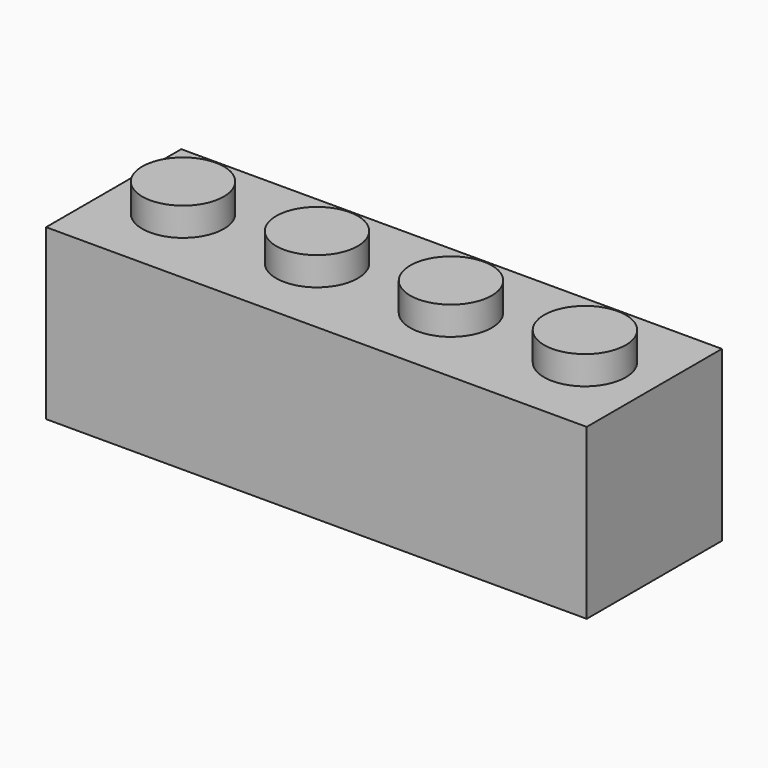
from build123d import *

# Parameters (mm, degrees)
F0_W     = 31.8
F0_H     = 9.94
F0_R     = 2.4
F1_DEPTH = 9.94
F2_DEPTH = 1.67
F3_W     = 28.8
F3_H     = 6.94
F3_R     = 1.59
F4_DEPTH = 8.45


with BuildPart() as f1:
    # F0 (on Top) → F1 (new body)
    with BuildSketch(Plane.XY):
        Rectangle(F0_W, F0_H)
        with Locations((-11.82, 0)):
            Circle(F0_R, mode=Mode.SUBTRACT)
        with Locations((-3.94, 0)):
            Circle(F0_R, mode=Mode.SUBTRACT)
        with Locations((3.94, 0)):
            Circle(F0_R, mode=Mode.SUBTRACT)
        with Locations((11.82, 0)):
            Circle(F0_R, mode=Mode.SUBTRACT)
        with Locations((-11.82, 0)):
            Circle(F0_R)
        with Locations((-3.94, 0)):
            Circle(F0_R)
        with Locations((3.94, 0)):
            Circle(F0_R)
        with Locations((11.82, 0)):
            Circle(F0_R)
    extrude(amount=-F1_DEPTH)

    # F0 (on Top) → F2 (join)
    with BuildSketch(Plane.XY):
        with Locations((-11.82, 0)):
            Circle(F0_R)
        with Locations((-3.94, 0)):
            Circle(F0_R)
        with Locations((3.94, 0)):
            Circle(F0_R)
        with Locations((11.82, 0)):
            Circle(F0_R)
    extrude(amount=F2_DEPTH)

    # F3 (on face) → F4 (cut)
    with BuildSketch(Plane(origin=(0, 0, -9.94), x_dir=(1, 0, 0), z_dir=(0, 0, -1))):
        Rectangle(F3_W, F3_H)
        with Locations((-7.91, 0)):
            Circle(F3_R, mode=Mode.SUBTRACT)
        with Locations((0.17, 0)):
            Circle(F3_R, mode=Mode.SUBTRACT)
        with Locations((8.25, 0)):
            Circle(F3_R, mode=Mode.SUBTRACT)
    extrude(amount=-F4_DEPTH, mode=Mode.SUBTRACT)


solid = f1.part
